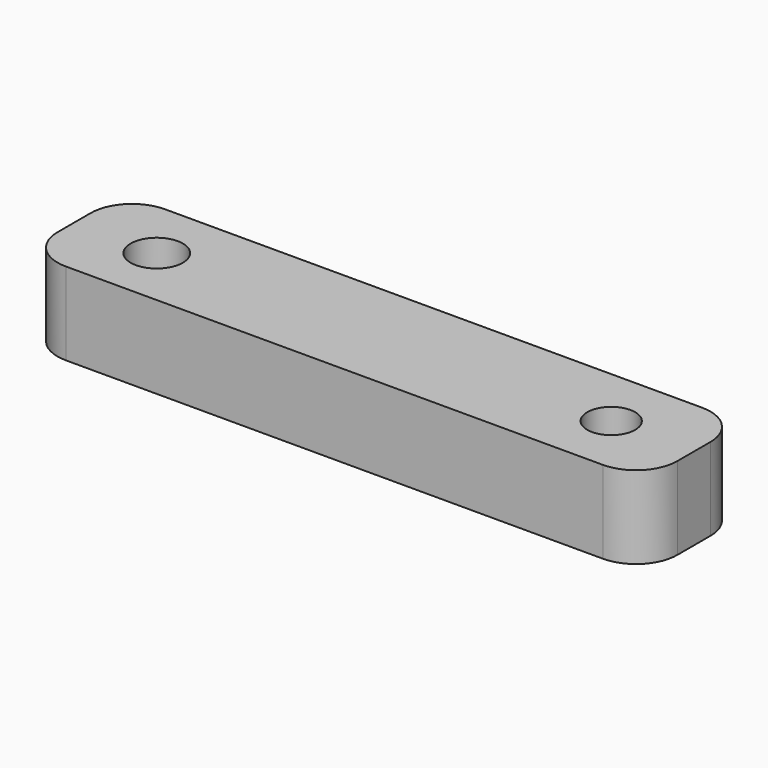
from build123d import *

# Parameters (mm, degrees)
F0_R     = 1.262631
F0_R_2   = 1.159393
F1_DEPTH = 4


with BuildPart() as f1:
    # F0 (on Top) → F1 (new body)
    with BuildSketch(Plane.XY):
        with BuildLine():
            Line((24.25625, 5.290567), (-1.74375, 5.290567))
            ThreePointArc((-1.74375, 5.290567), (-3.157964, 4.70478), (-3.74375, 3.290567))
            Line((-3.74375, 3.290567), (-3.74375, 1.290567))
            ThreePointArc((-3.74375, 1.290567), (-3.157964, -0.123647), (-1.74375, -0.709433))
            Line((-1.74375, -0.709433), (24.25625, -0.709433))
            ThreePointArc((24.25625, -0.709433), (25.670464, -0.123647), (26.25625, 1.290567))
            Line((26.25625, 1.290567), (26.25625, 3.290567))
            ThreePointArc((26.25625, 3.290567), (25.670464, 4.70478), (24.25625, 5.290567))
        make_face()
        with Locations((0.25625, 2.290567)):
            Circle(F0_R, mode=Mode.SUBTRACT)
        with Locations((22.25625, 2.290567)):
            Circle(F0_R_2, mode=Mode.SUBTRACT)
    extrude(amount=F1_DEPTH)


solid = f1.part
